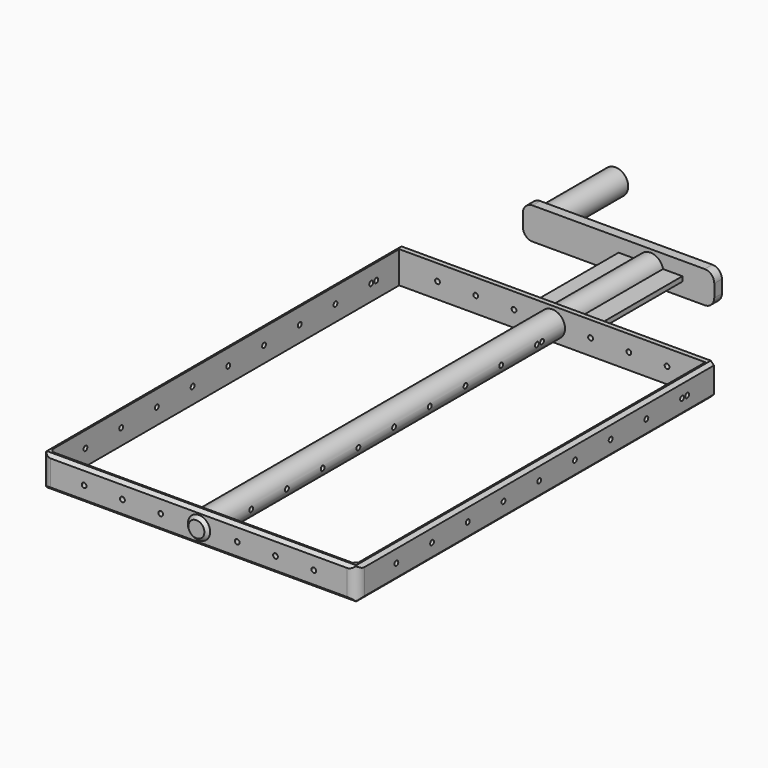
from build123d import *

# Parameters (mm, degrees)
SKETCH_W        = 99
SKETCH_H        = 140
PAD_DEPTH       = 5
SKETCH001_W     = 96
SKETCH001_H     = 137
POCKET_DEPTH    = 10.001
CHAMFER_SIZE    = 1
CHAMFER001_SIZE = 1
CHAMFER002_SIZE = 1
CHAMFER003_SIZE = 1
CHAMFER004_SIZE = 1
CHAMFER005_SIZE = 1
CHAMFER006_SIZE = 1
CHAMFER007_SIZE = 1
CHAMFER008_SIZE = 1
FILLET_R        = 3
CHAMFER009_SIZE = 1
FILLET001_R     = 3
SKETCH002_R     = 4
PAD001_DEPTH    = 180
SKETCH003_W     = 20
SKETCH003_H     = 1.5
PAD002_DEPTH    = 41.5
PAD003_DEPTH    = 3
SKETCH005_R     = 4
PAD004_DEPTH    = 30
SKETCH007_R     = 3.5
PAD005_DEPTH    = 1
PAD005_TAPER    = 45
SKETCH008_R     = 0.75
POCKET001_DEPTH = 99.001
SKETCH009_R     = 0.75
POCKET002_DEPTH = 140


with BuildPart() as part:
    # Sketch → Pad (new body, symmetric)
    with BuildSketch(Plane.XY):
        Rectangle(SKETCH_W, SKETCH_H)
    extrude(amount=PAD_DEPTH, both=True)

    # Sketch001 (on Face6 of Pad) → Pocket (cut, through all)
    with BuildSketch(Plane.XY.offset(5)):
        Rectangle(SKETCH001_W, SKETCH001_H)
    extrude(amount=-POCKET_DEPTH, mode=Mode.SUBTRACT)

    # Chamfer
    chamfer_edges = [part.edges().sort_by_distance(p)[0] for p in [
        (0, -70, 5),
    ]]
    chamfer(chamfer_edges, length=CHAMFER_SIZE)

    # Chamfer001
    chamfer001_edges = [part.edges().sort_by_distance(p)[0] for p in [
        (0, -70, -5),
    ]]
    chamfer(chamfer001_edges, length=CHAMFER001_SIZE)

    # Chamfer002
    chamfer002_edges = [part.edges().sort_by_distance(p)[0] for p in [
        (-49.5, -69.5, -4.5),
    ]]
    chamfer(chamfer002_edges, length=CHAMFER002_SIZE)

    # Chamfer003
    chamfer003_edges = [part.edges().sort_by_distance(p)[0] for p in [
        (49.5, -69.5, -4.5),
    ]]
    chamfer(chamfer003_edges, length=CHAMFER003_SIZE)

    # Chamfer004
    chamfer004_edges = [part.edges().sort_by_distance(p)[0] for p in [
        (49.5, 1.207107, -5),
    ]]
    chamfer(chamfer004_edges, length=CHAMFER004_SIZE)

    # Chamfer005
    chamfer005_edges = [part.edges().sort_by_distance(p)[0] for p in [
        (-49.5, 1.207107, -5),
    ]]
    chamfer(chamfer005_edges, length=CHAMFER005_SIZE)

    # Chamfer006
    chamfer006_edges = [part.edges().sort_by_distance(p)[0] for p in [
        (49.5, -69.5, 4.5),
        (-49.5, -69.5, 4.5),
    ]]
    chamfer(chamfer006_edges, length=CHAMFER006_SIZE)

    # Chamfer007
    chamfer007_edges = [part.edges().sort_by_distance(p)[0] for p in [
        (49.5, 1.207107, 5),
        (-49.5, 1.207107, 5),
    ]]
    chamfer(chamfer007_edges, length=CHAMFER007_SIZE)

    # Chamfer008
    chamfer008_edges = [part.edges().sort_by_distance(p)[0] for p in [
        (48, -68.5, 0),
    ]]
    chamfer(chamfer008_edges, length=CHAMFER008_SIZE)

    # Fillet
    fillet_edges = [part.edges().sort_by_distance(p)[0] for p in [
        (49.5, -70, 0),
    ]]
    fillet(fillet_edges, radius=FILLET_R)

    # Chamfer009
    chamfer009_edges = [part.edges().sort_by_distance(p)[0] for p in [
        (-48, -68.5, 0),
    ]]
    chamfer(chamfer009_edges, length=CHAMFER009_SIZE)

    # Fillet001
    fillet001_edges = [part.edges().sort_by_distance(p)[0] for p in [
        (-49.5, -70, 0),
    ]]
    fillet(fillet001_edges, radius=FILLET001_R)

    # Sketch002 (on Face10 of Fillet001) → Pad001 (join)
    with BuildSketch(Plane.XZ.offset(70)):
        Circle(SKETCH002_R)
    extrude(amount=-PAD001_DEPTH)

    # Sketch003 (on Face21 of Pad001) → Pad002 (join)
    with BuildSketch(Plane.XZ.offset(-68.5)):
        Rectangle(SKETCH003_W, SKETCH003_H)
    extrude(amount=-PAD002_DEPTH)

    # Sketch004 (on Face34 of Pad002) → Pad003 (join)
    with BuildSketch(Plane(origin=(0, 110, 0), x_dir=(-1, 0, 0), z_dir=(0, 1, 0))):
        with BuildLine():
            Line((-20, 2), (-20, -2))
            ThreePointArc((-20, -2), (-19.12132, -4.12132), (-17, -5))
            Line((-17, -5), (37, -5))
            ThreePointArc((37, -5), (39.12132, -4.12132), (40, -2))
            Line((40, -2), (40, 2))
            ThreePointArc((40, 2), (39.12132, 4.12132), (37, 5))
            Line((37, 5), (-17, 5))
            ThreePointArc((-17, 5), (-19.12132, 4.12132), (-20, 2))
        make_face()
    extrude(amount=-PAD003_DEPTH)

    # Sketch005 (on Face33 of Pad003) → Pad004 (join)
    with BuildSketch(Plane.XZ.offset(-107)):
        with Locations((-35, 0)):
            Circle(SKETCH005_R)
    extrude(amount=-PAD004_DEPTH)

    # Sketch007 (on Face22 of Pad004) → Pad005 (join)
    with BuildSketch(Plane.XZ.offset(70)):
        Circle(SKETCH007_R)
    extrude(amount=PAD005_DEPTH, taper=PAD005_TAPER)

    # Sketch008 (on Face29 of Pad005) → Pocket001 (cut, through all)
    with BuildSketch(Plane.YZ.offset(49.5)):
        with Locations((-54.5, 0)):
            Circle(SKETCH008_R)
        with Locations((-40.5, 0)):
            Circle(SKETCH008_R)
        with Locations((-26.5, 0)):
            Circle(SKETCH008_R)
        with Locations((-12.5, 0)):
            Circle(SKETCH008_R)
        with Locations((1.5, 0)):
            Circle(SKETCH008_R)
        with Locations((15.5, 0)):
            Circle(SKETCH008_R)
        with Locations((29.5, 0)):
            Circle(SKETCH008_R)
        with Locations((43.5, 0)):
            Circle(SKETCH008_R)
        with Locations((57.5, 0)):
            Circle(SKETCH008_R)
        with Locations((59.5, 0)):
            Circle(SKETCH008_R)
    extrude(amount=-POCKET001_DEPTH, mode=Mode.SUBTRACT)

    # Sketch009 (on Face64 of Pocket001) → Pocket002 (cut)
    with BuildSketch(Plane.XZ.offset(70)):
        with Locations((-36, 0)):
            Circle(SKETCH009_R)
        with Locations((-24, 0)):
            Circle(SKETCH009_R)
        with Locations((-12, 0)):
            Circle(SKETCH009_R)
        with Locations((12, 0)):
            Circle(SKETCH009_R)
        with Locations((24, 0)):
            Circle(SKETCH009_R)
        with Locations((36, 0)):
            Circle(SKETCH009_R)
    extrude(amount=-POCKET002_DEPTH, mode=Mode.SUBTRACT)


solid = part.part
